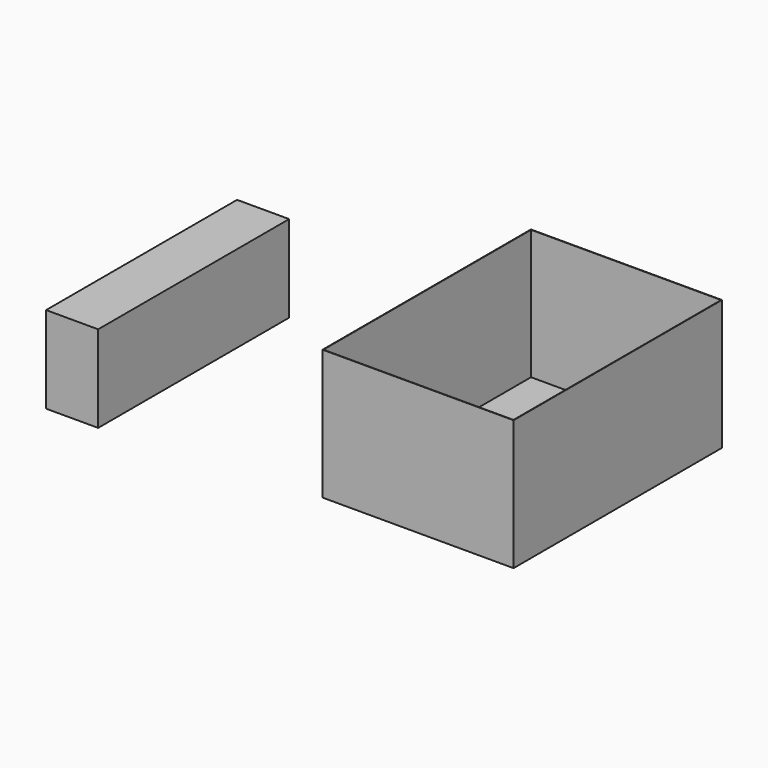
from build123d import *

# Parameters (mm, degrees)
F0_W     = 440
F0_H     = 600
F1_DEPTH = 300
F2_W     = 438
F2_H     = 598
F3_DEPTH = 299
F4_W     = 120
F4_H     = 550
F5_DEPTH = 200


with BuildPart() as f1:
    # F0 (on Top) → F1 (new body)
    with BuildSketch(Plane.XY):
        with Locations((-9.748274, 56.695815)):
            Rectangle(F0_W, F0_H)
    extrude(amount=F1_DEPTH)

    # F2 (on face) → F3 (cut)
    with BuildSketch(Plane.XY.offset(300)):
        with Locations((-9.748274, 56.695815)):
            Rectangle(F2_W, F2_H)
    extrude(amount=-F3_DEPTH, mode=Mode.SUBTRACT)


with BuildPart() as f5:
    # F4 (on Top) → F5 (new body)
    with BuildSketch(Plane.XY):
        with Locations((-774.607886, -8.470178)):
            Rectangle(F4_W, F4_H)
    extrude(amount=F5_DEPTH)


solid = Compound([f1.part, f5.part])
